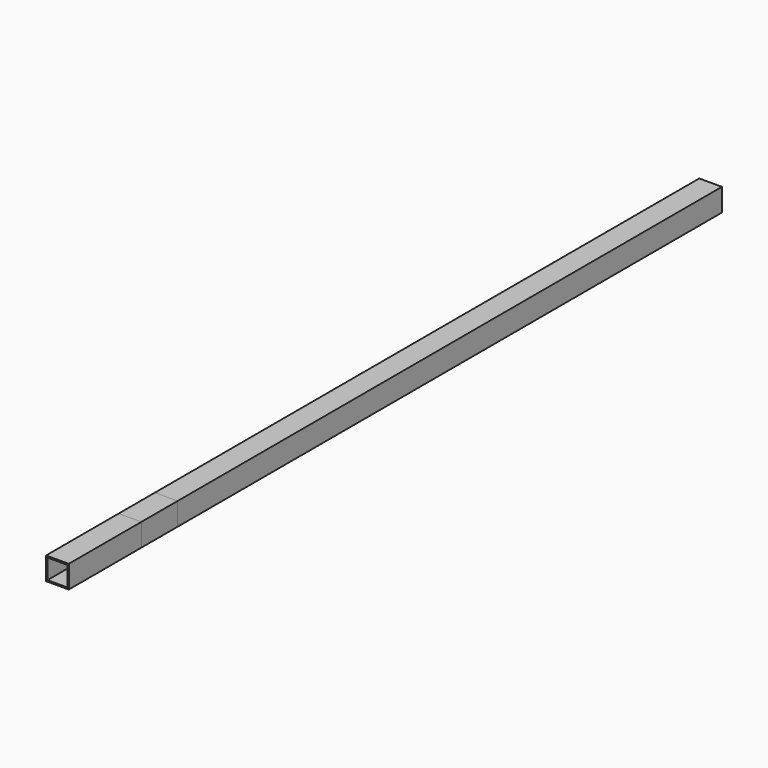
from build123d import *

# Parameters (mm, degrees)
F0_W     = 25.4
F0_H     = 25.4
F0_W_2   = 22.225
F0_H_2   = 22.225
F1_DEPTH = 914.4
F2_DEPTH = 152.4
F3_DEPTH = 381
F4_DEPTH = 381
F5_DEPTH = 609.6
F6_DEPTH = 812.8
F7_DEPTH = 88.9
F8_DEPTH = 762


with BuildPart() as f1:
    # F0 (on Front) → F1 (new body)
    with BuildSketch(Plane.XZ):
        with Locations((12.7, 12.7)):
            Rectangle(F0_W, F0_H)
        with Locations((12.7, 12.7)):
            Rectangle(F0_W_2, F0_H_2, mode=Mode.SUBTRACT)
    extrude(amount=F1_DEPTH)


with BuildPart() as f2:
    # F0 (on Front) → F2 (new body)
    with BuildSketch(Plane.XZ):
        with Locations((12.7, 12.7)):
            Rectangle(F0_W, F0_H)
        with Locations((12.7, 12.7)):
            Rectangle(F0_W_2, F0_H_2, mode=Mode.SUBTRACT)
    extrude(amount=F2_DEPTH)


with BuildPart() as f3:
    # F0 (on Front) → F3 (new body)
    with BuildSketch(Plane.XZ):
        with Locations((12.7, 12.7)):
            Rectangle(F0_W, F0_H)
        with Locations((12.7, 12.7)):
            Rectangle(F0_W_2, F0_H_2, mode=Mode.SUBTRACT)
    extrude(amount=F3_DEPTH)


with BuildPart() as f4:
    # F0 (on Front) → F4 (new body)
    with BuildSketch(Plane.XZ):
        with Locations((12.7, 12.7)):
            Rectangle(F0_W, F0_H)
        with Locations((12.7, 12.7)):
            Rectangle(F0_W_2, F0_H_2, mode=Mode.SUBTRACT)
    extrude(amount=F4_DEPTH)


with BuildPart() as f5:
    # F0 (on Front) → F5 (new body)
    with BuildSketch(Plane.XZ):
        with Locations((12.7, 12.7)):
            Rectangle(F0_W, F0_H)
        with Locations((12.7, 12.7)):
            Rectangle(F0_W_2, F0_H_2, mode=Mode.SUBTRACT)
    extrude(amount=F5_DEPTH)


with BuildPart() as f6:
    # F0 (on Front) → F6 (new body)
    with BuildSketch(Plane.XZ):
        with Locations((12.7, 12.7)):
            Rectangle(F0_W, F0_H)
        with Locations((12.7, 12.7)):
            Rectangle(F0_W_2, F0_H_2, mode=Mode.SUBTRACT)
    extrude(amount=F6_DEPTH)


with BuildPart() as f7:
    # F0 (on Front) → F7 (new body)
    with BuildSketch(Plane.XZ):
        with Locations((12.7, 12.7)):
            Rectangle(F0_W, F0_H)
        with Locations((12.7, 12.7)):
            Rectangle(F0_W_2, F0_H_2, mode=Mode.SUBTRACT)
    extrude(amount=F7_DEPTH)


with BuildPart() as f8:
    # F0 (on Front) → F8 (new body)
    with BuildSketch(Plane.XZ):
        with Locations((12.7, 12.7)):
            Rectangle(F0_W, F0_H)
        with Locations((12.7, 12.7)):
            Rectangle(F0_W_2, F0_H_2, mode=Mode.SUBTRACT)
    extrude(amount=F8_DEPTH)


solid = Compound([f1.part, f2.part, f3.part, f4.part, f5.part, f6.part, f7.part, f8.part])
